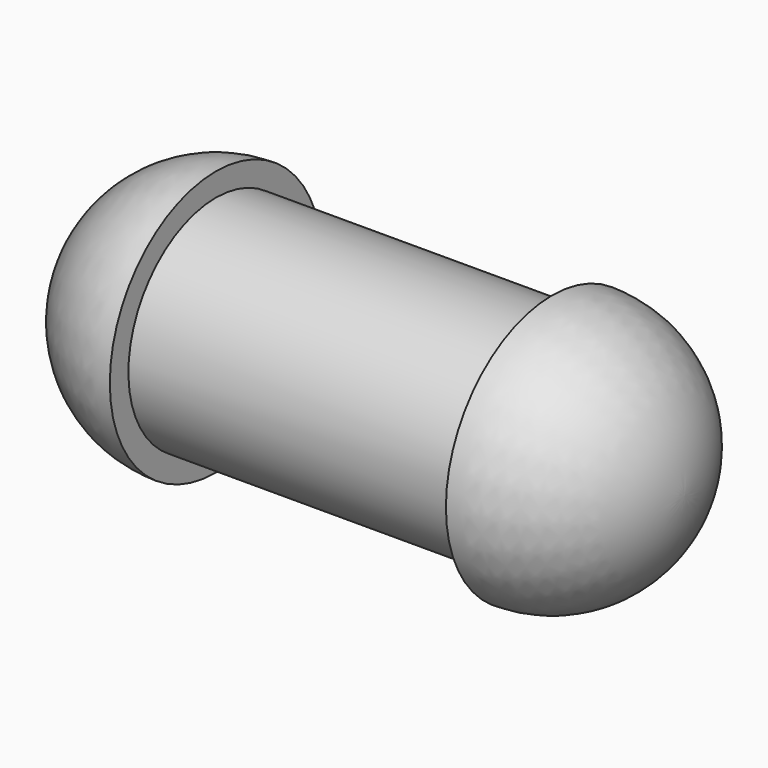
from build123d import *


with BuildPart() as f1:
    # F0 (on Front) → F1 (revolve)
    with BuildSketch(Plane.XZ):
        with BuildLine():
            Line((0, 4.95), (0, 0))
            Line((0, 0), (13.6, 0))
            ThreePointArc((13.6, 0), (11.842641, 4.242641), (7.6, 6))
            Line((7.6, 6), (7.6, 4.95))
            Line((7.6, 4.95), (0, 4.95))
        make_face()
    revolve(axis=Axis((6.8, 0, 0), (1, 0, 0)))

    # F2: F1 across face


with BuildPart() as f1_1:
    add(f1.part)
    add(f1.part.mirror(Plane(origin=(0, 0, 0), x_dir=(0, -1, 0), z_dir=(-1, 0, 0))))


solid = f1_1.part
